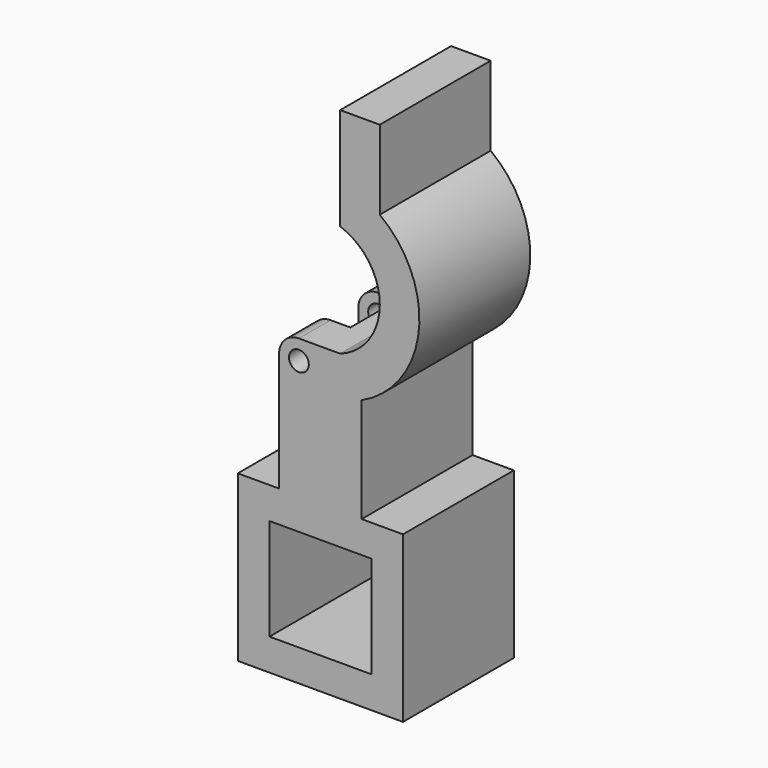
from build123d import *

# Parameters (mm, degrees)
F0_R     = 2.5
F1_DEPTH = 15
F2_R     = 5
F4_DEPTH = 5
F5_DEPTH = 2.5


with BuildPart() as f1:
    # F0 (on Front) → F1 (new body)
    with BuildSketch(Plane.XZ):
        with BuildLine():
            Line((-20.85, 20.85), (-20.85, 0))
            Line((-20.85, 0), (-20.85, -20.85))
            Line((-20.85, -20.85), (0, -20.85))
            Line((0, -20.85), (20.85, -20.85))
            Line((20.85, -20.85), (20.85, 0))
            Line((20.85, 0), (20.85, 20.85))
            Line((20.85, 20.85), (10.425, 20.85))
            Line((10.425, 20.85), (10.425, 47.277337854))
            ThreePointArc((10.425, 47.277337854), (24.8578784585, 67.3380686447), (15, 90))
            Line((15, 90), (15, 110))
            Line((15, 110), (5, 110))
            Line((5, 110), (5, 84.1421356237))
            ThreePointArc((5, 84.1421356237), (14.9999953406, 69.9881770745), (4.9777002722, 55.85))
            Line((4.9777002722, 55.85), (-10.425, 55.85))
            Line((-10.425, 55.85), (-10.425, 20.85))
            Line((-10.425, 20.85), (-20.85, 20.85))
        make_face()
        Polygon((-12.85, 12.85), (0, 12.85), (12.85, 12.85), (12.85, 0), (12.85, -12.85), (0, -12.85), (-12.85, -12.85), (-12.85, 0), align=None, mode=Mode.SUBTRACT)
        with Locations((-5.425, 50.85)):
            Circle(F0_R, mode=Mode.SUBTRACT)
    extrude(amount=F1_DEPTH)

    # F2
    f2_edges = [f1.edges().sort_by_distance(p)[0] for p in [
        (-10.425, -7.5, 55.85),
    ]]
    fillet(f2_edges, radius=F2_R)

    # F3 (on face) → F4 (cut)
    with BuildSketch(Plane.XZ.offset(15)):
        with BuildLine():
            Line((-0.425, 55.85), (-5.425, 55.85))
            ThreePointArc((-5.425, 55.85), (-8.9605339059, 54.3855339059), (-10.425, 50.85))
            Line((-10.425, 50.85), (-10.425, 45.85))
            Line((-10.425, 45.85), (-5.425, 45.85))
            ThreePointArc((-5.425, 45.85), (-1.8894660941, 47.3144660941), (-0.425, 50.85))
            Line((-0.425, 50.85), (-0.425, 55.85))
        make_face()
    extrude(amount=-F4_DEPTH, mode=Mode.SUBTRACT)

    # F5 (add): a face of the model
    f5_faces = [f1.faces().sort_by_distance(p)[0] for p in [
        (4.1569852553, -15, 31.7276341026),
    ]]
    extrude(f5_faces, amount=F5_DEPTH)

    # F7: F1 across plane


with BuildPart() as f1_1:
    add(f1.part)
    add(f1.part.mirror(Plane.XZ.offset(17.5)))


solid = f1_1.part
